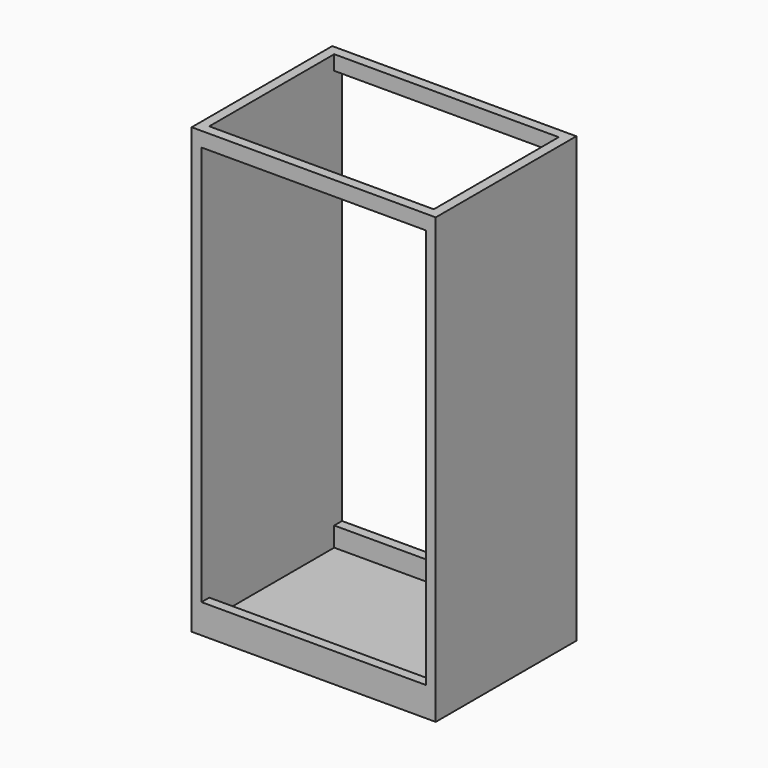
from build123d import *

# Parameters (mm, degrees)
F0_W     = 50
F0_H     = 36
F1_DEPTH = 2
F2_W     = 50
F2_H     = 36
F2_W_2   = 46
F2_H_2   = 32
F3_DEPTH = 4
F4_W     = 2
F4_H     = 36
F5_DEPTH = 85
F6_W     = 50
F6_H     = 36
F7_DEPTH = 3
F8_W     = 46
F8_H     = 32
F9_DEPTH = 25


with BuildPart() as f1:
    # F0 (on Top) → F1 (new body)
    with BuildSketch(Plane.XY):
        with Locations((-32.9025480896, 24.3834912755)):
            Rectangle(F0_W, F0_H)
    extrude(amount=F1_DEPTH)

    # F2 (on face) → F3 (join)
    with BuildSketch(Plane.XY.offset(2)):
        with Locations((-32.9025480896, 24.3834912755)):
            Rectangle(F2_W, F2_H)
        with Locations((-32.9025480896, 24.3834912755)):
            Rectangle(F2_W_2, F2_H_2, mode=Mode.SUBTRACT)
    extrude(amount=F3_DEPTH)

    # F4 (on face) → F5 (join)
    with BuildSketch(Plane.XY.offset(6)):
        with Locations((-56.9025480896, 24.3834912755)):
            Rectangle(F4_W, F4_H)
        with Locations((-8.9025480896, 24.3834912755)):
            Rectangle(F4_W, F4_H)
    extrude(amount=F5_DEPTH)

    # F6 (on face) → F7 (join)
    with BuildSketch(Plane.XY.offset(91)):
        with Locations((-32.9025480896, 24.3834912755)):
            Rectangle(F6_W, F6_H)
    extrude(amount=-F7_DEPTH)

    # F8 (on face) → F9 (cut)
    with BuildSketch(Plane(origin=(0, 0, 88), x_dir=(1, 0, 0), z_dir=(0, 0, -1))):
        with Locations((-32.9025480896, -24.3834912755)):
            Rectangle(F8_W, F8_H)
    extrude(amount=-F9_DEPTH, mode=Mode.SUBTRACT)


solid = f1.part
